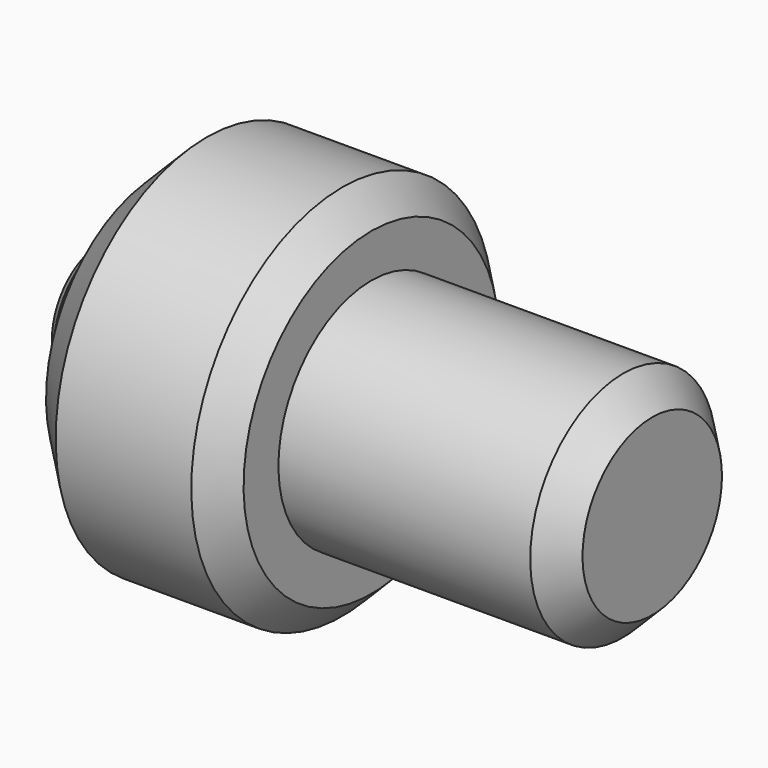
from build123d import *

# Parameters (mm, degrees)
F2_SIZE = 5
F3_SIZE = 3
F4_SIZE = 1


with BuildPart() as f1:
    # F0 (on Front) → F1 (revolve)
    with BuildSketch(Plane.XZ):
        Polygon((0, 5), (0, 0), (55, 0), (55, 12), (26, 12), (26, 19.5), (4, 19.5), (4, 7.25), (-2, 7.25), (-2, 5), align=None)
    revolve(axis=Axis((27.5, 0, 0), (-1, 0, 0)))

    # F2
    f2_edges = [f1.edges().sort_by_distance(p)[0] for p in [
        (4, 0, -19.5),
    ]]
    chamfer(f2_edges, length=F2_SIZE)

    # F3
    f3_edges = [f1.edges().sort_by_distance(p)[0] for p in [
        (26, 0, -19.5),
        (55, 0, -12),
    ]]
    chamfer(f3_edges, length=F3_SIZE)

    # F4
    f4_edges = [f1.edges().sort_by_distance(p)[0] for p in [
        (-2, 0, -7.25),
    ]]
    chamfer(f4_edges, length=F4_SIZE)


solid = f1.part
